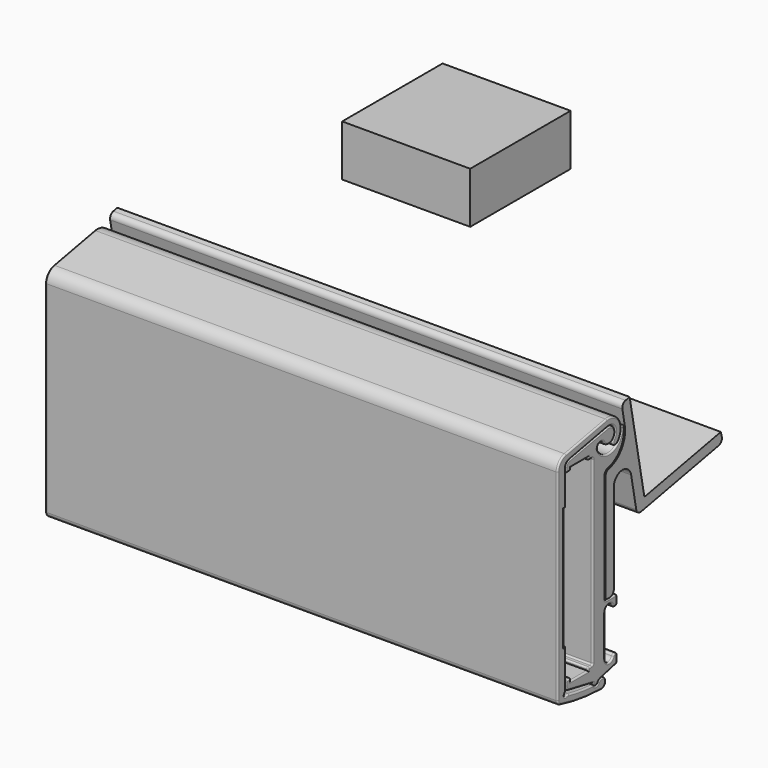
from build123d import *

# Parameters (mm, degrees)
F4_DEPTH  = 100
F5_DEPTH  = 100
F6_R      = 0.3
F7_R      = 0.3
F8_DEPTH  = 100
F9_W      = 24.502210319
F9_H      = 9.9877920002
F10_DEPTH = 25
F11_DEPTH = 50
F12_DEPTH = 25


with BuildPart() as f4:
    # F1 (on Right) → F4 (new body)
    with BuildSketch(Plane.YZ):
        with BuildLine():
            ThreePointArc((-6.5986927329, 35.6), (-6.5108247672, 35.3878679656), (-6.2986927329, 35.3))
            Line((-6.2986927329, 35.3), (-5.648984227, 35.3))
            ThreePointArc((-5.648984227, 35.3), (-5.4368521926, 35.3878679656), (-5.348984227, 35.6))
            Line((-5.348984227, 35.6), (-5.348984227, 35.85))
            Line((-5.348984227, 35.85), (-1.148984227, 35.85))
            Line((-1.148984227, 35.85), (-1.148984227, 35.6))
            ThreePointArc((-1.148984227, 35.6), (-1.0611162613, 35.3878679656), (-0.848984227, 35.3))
            Line((-0.848984227, 35.3), (-0.3, 35.3))
            ThreePointArc((-0.3, 35.3), (-0.0878679656, 35.2121320344), (0, 35))
            Line((0, 35), (0, 0))
            ThreePointArc((0, 0), (-0.0878679656, -0.2121320344), (-0.3, -0.3))
            Line((-0.3, -0.3), (-0.848984227, -0.3))
            ThreePointArc((-0.848984227, -0.3), (-1.0611162613, -0.3878679656), (-1.148984227, -0.6))
            Line((-1.148984227, -0.6), (-1.148984227, -0.85))
            Line((-1.148984227, -0.85), (-5.348984227, -0.85))
            Line((-5.348984227, -0.85), (-5.348984227, -0.6))
            ThreePointArc((-5.348984227, -0.6), (-5.4368521926, -0.3878679656), (-5.648984227, -0.3))
            Line((-5.648984227, -0.3), (-6.3, -0.3))
            ThreePointArc((-6.3, -0.3), (-6.5121320344, -0.3878679656), (-6.6, -0.6))
            Line((-6.6, -0.6), (-6.6, -1.3))
            ThreePointArc((-6.6, -1.3), (-6.3708632711, -1.9370006416), (-5.7884603653, -2.2820807964))
            Line((-5.7884603653, -2.2820807964), (-0.0865544203, -3.3762710924))
            ThreePointArc((-0.0865544203, -3.3762710924), (0.1222638607, -3.4876269814), (0.2316020405, -3.6975087838))
            ThreePointArc((0.2316020405, -3.6975087838), (0.7086336632, -4.1660938292), (1.3100781326, -3.8738684639))
            ThreePointArc((1.3100781326, -3.8738684639), (1.5817000652, -3.5577812642), (1.9570749663, -3.3767197392))
            Line((1.9570749663, -3.3767197392), (5.6206396997, -2.4658665132))
            ThreePointArc((5.6206396997, -2.4658665132), (5.8939034462, -2.2885998252), (6, -1.9806386668))
            Line((6, -1.9806386668), (6, -0.97325259))
            ThreePointArc((6, -0.97325259), (5.8535533906, -0.6196991994), (5.5, -0.47325259))
            Line((5.5, -0.47325259), (5.4142135624, -0.47325259))
            ThreePointArc((5.4142135624, -0.47325259), (5.1255384278, -0.5650042995), (4.9428090416, -0.8065859233))
            ThreePointArc((4.9428090416, -0.8065859233), (3.8308980213, -1.4588511497), (3, -0.47325259))
            Line((3, -0.47325259), (3, 7.52674741))
            ThreePointArc((3, 7.52674741), (3.8308980213, 8.5123459697), (4.9428090416, 7.8600807433))
            ThreePointArc((4.9428090416, 7.8600807433), (5.1255384278, 7.6184991195), (5.4142135624, 7.52674741))
            Line((5.4142135624, 7.52674741), (5.5, 7.52674741))
            ThreePointArc((5.5, 7.52674741), (5.8535533906, 7.6731940194), (6, 8.02674741))
            Line((6, 8.02674741), (6, 9.0341334868))
            ThreePointArc((6, 9.0341334868), (5.8535533906, 9.3876868774), (5.5, 9.5341334868))
            Line((5.5, 9.5341334868), (3.2328928629, 9.5341334868))
            ThreePointArc((3.2328928629, 9.5341334868), (3.0914715066, 9.5927121306), (3.0328928629, 9.7341334868))
            Line((3.0328928629, 9.7341334868), (3.0328928629, 30.9422663614))
            ThreePointArc((3.0328928629, 30.9422663614), (3.2558877648, 31.5717606645), (3.825419018, 31.9205069268))
            ThreePointArc((3.825419018, 31.9205069268), (6.9149840047, 33.9888718169), (7.7225945394, 37.6181018109))
            ThreePointArc((7.7225945394, 37.6181018109), (7.3673025712, 37.896077679), (7.0614932547, 37.5644398829))
            ThreePointArc((7.0614932547, 37.5644398829), (4.7638322945, 34.5700698214), (1.2768145029, 36.0144398829))
            ThreePointArc((1.2768145029, 36.0144398829), (1.569634826, 37.1072602059), (2.662455149, 36.8144398829))
            ThreePointArc((2.662455149, 36.8144398829), (5.3237230576, 36.9364829068), (3.6880693091, 39.0393091469))
            Line((3.6880693091, 39.0393091469), (-5.7334889196, 37.2926596733))
            ThreePointArc((-5.7334889196, 37.2926596733), (-6.3541269651, 36.9288674594), (-6.5986927329, 36.2523144728))
            Line((-6.5986927329, 36.2523144728), (-6.5986927329, 35.6))
        make_face()
    extrude(amount=F4_DEPTH)

    # F7
    f7_edges = [f4.edges().sort_by_distance(p)[0] for p in [
        (100, -6.354127, 36.928867),
        (100, -6.598693, 35.926157),
        (100, -6.510825, 35.387868),
        (100, -5.973838, 35.3),
        (100, -5.436852, 35.387868),
        (100, -5.348984, 35.725),
        (100, -3.248984, 35.85),
        (100, -1.148984, 35.725),
        (100, -1.061116, 35.387868),
        (100, -0.574492, 35.3),
        (100, -0.087868, 35.212132),
        (100, 0, 17.5),
        (100, -0.087868, -0.212132),
        (100, -0.574492, -0.3),
        (100, -1.061116, -0.387868),
        (100, -1.148984, -0.725),
        (100, -3.248984, -0.85),
        (100, -5.348984, -0.725),
        (100, -5.436852, -0.387868),
        (100, -5.974492, -0.3),
        (100, -6.512132, -0.387868),
        (100, -6.6, -0.95),
        (100, -6.370863, -1.937001),
        (100, -2.937507, -2.829176),
        (100, 0.122264, -3.487627),
        (100, 0.708634, -4.166094),
        (100, 1.5817, -3.557781),
        (100, 3.788857, -2.921293),
        (100, 5.893903, -2.2886),
        (100, 6, -1.476946),
        (100, 5.853553, -0.619699),
        (100, 5.457107, -0.473253),
        (100, 5.125538, -0.565004),
        (100, 3.830898, -1.458851),
        (100, 3, 3.526747),
        (100, 3.830898, 8.512346),
        (100, 5.125538, 7.618499),
        (100, 5.457107, 7.526747),
        (100, 5.853553, 7.673194),
        (100, 6, 8.53044),
        (100, 5.853553, 9.387687),
        (100, 4.366446, 9.534133),
        (100, 3.091472, 9.592712),
        (100, 3.032893, 20.3382),
        (100, 3.255888, 31.571761),
        (100, 6.914984, 33.988872),
        (100, 7.367303, 37.896078),
        (100, 4.763832, 34.57007),
        (100, 1.569635, 37.10726),
        (100, 5.323723, 36.936483),
        (100, -1.02271, 38.165984),
        (0, -6.354127, 36.928867),
        (0, -6.598693, 35.926157),
        (0, -6.510825, 35.387868),
        (0, -5.973838, 35.3),
        (0, -5.436852, 35.387868),
        (0, -5.348984, 35.725),
        (0, -3.248984, 35.85),
        (0, -1.148984, 35.725),
        (0, -1.061116, 35.387868),
        (0, -0.574492, 35.3),
        (0, -0.087868, 35.212132),
        (0, 0, 17.5),
        (0, -0.087868, -0.212132),
        (0, -0.574492, -0.3),
        (0, -1.061116, -0.387868),
        (0, -1.148984, -0.725),
        (0, -3.248984, -0.85),
        (0, -5.348984, -0.725),
        (0, -5.436852, -0.387868),
        (0, -5.974492, -0.3),
        (0, -6.512132, -0.387868),
        (0, -6.6, -0.95),
        (0, -6.370863, -1.937001),
        (0, -2.937507, -2.829176),
        (0, 0.122264, -3.487627),
        (0, 0.708634, -4.166094),
        (0, 1.5817, -3.557781),
        (0, 3.788857, -2.921293),
        (0, 5.893903, -2.2886),
        (0, 6, -1.476946),
        (0, 5.853553, -0.619699),
        (0, 5.457107, -0.473253),
        (0, 5.125538, -0.565004),
        (0, 3.830898, -1.458851),
        (0, 3, 3.526747),
        (0, 3.830898, 8.512346),
        (0, 5.125538, 7.618499),
        (0, 5.457107, 7.526747),
        (0, 5.853553, 7.673194),
        (0, 6, 8.53044),
        (0, 5.853553, 9.387687),
        (0, 4.366446, 9.534133),
        (0, 3.091472, 9.592712),
        (0, 3.032893, 20.3382),
        (0, 3.255888, 31.571761),
        (0, 6.914984, 33.988872),
        (0, 7.367303, 37.896078),
        (0, 4.763832, 34.57007),
        (0, 1.569635, 37.10726),
        (0, 5.323723, 36.936483),
        (0, -1.02271, 38.165984),
    ]]
    fillet(f7_edges, radius=F7_R)

    # F0 (on Right) → F11 (join)
    with BuildSketch(Plane.YZ):
        with BuildLine():
            ThreePointArc((0, 34.5), (-0.1464466094, 34.8535533906), (-0.5, 35))
            Line((-0.5, 35), (-6, 35))
            ThreePointArc((-6, 35), (-6.3535533906, 34.8535533906), (-6.5, 34.5))
            Line((-6.5, 34.5), (-6.5, 29.4))
            Line((-6.5, 29.4), (-6.5, 5.6))
            Line((-6.5, 5.6), (-6.5, 0.5))
            ThreePointArc((-6.5, 0.5), (-6.3535533906, 0.1464466094), (-6, 0))
            Line((-6, 0), (-0.5, 0))
            ThreePointArc((-0.5, 0), (-0.1464466094, 0.1464466094), (0, 0.5))
            Line((0, 0.5), (0, 34.5))
        make_face()
    extrude(amount=F11_DEPTH)

    # F0 (on Right) → F12 (join)
    with BuildSketch(Plane.YZ):
        with BuildLine():
            ThreePointArc((0, 34.5), (-0.1464466094, 34.8535533906), (-0.5, 35))
            Line((-0.5, 35), (-6, 35))
            ThreePointArc((-6, 35), (-6.3535533906, 34.8535533906), (-6.5, 34.5))
            Line((-6.5, 34.5), (-6.5, 29.4))
            Line((-6.5, 29.4), (-6.5, 5.6))
            Line((-6.5, 5.6), (-6.5, 0.5))
            ThreePointArc((-6.5, 0.5), (-6.3535533906, 0.1464466094), (-6, 0))
            Line((-6, 0), (-0.5, 0))
            ThreePointArc((-0.5, 0), (-0.1464466094, 0.1464466094), (0, 0.5))
            Line((0, 0.5), (0, 34.5))
        make_face()
    extrude(amount=F12_DEPTH)


with BuildPart() as f5:
    # F2 (on Right) → F5 (new body)
    with BuildSketch(Plane.YZ):
        with BuildLine():
            Line((3.3874237713, 40.5395607592), (-6.577213406, 38.61681733))
            ThreePointArc((-6.577213406, 38.61681733), (-7.9861152068, 37.8066649135), (-8.5986923441, 36.3013076559))
            Line((-8.5986923441, 36.3013076559), (-8.5986923441, -2.9915447872))
            ThreePointArc((-8.5986923441, -2.9915447872), (-8.3919076915, -3.6004860098), (-7.8570735189, -3.9575878341))
            ThreePointArc((-7.8570735189, -3.9575878341), (-2.8791191486, -4.9688755244), (2.1848430589, -5.3676477244))
            ThreePointArc((2.1848430589, -5.3676477244), (3.0683011122, -3.8674039581), (1.327337442, -3.8839867606))
            ThreePointArc((1.327337442, -3.8839867606), (0.8341463363, -4.1928474112), (0.3109388427, -3.9381195427))
            ThreePointArc((0.3109388427, -3.9381195427), (0.1807298879, -3.8197925344), (0.012344404, -3.7687829116))
            ThreePointArc((0.012344404, -3.7687829116), (-2.9091729698, -3.4492101869), (-5.7995512298, -2.917134999))
            ThreePointArc((-5.7995512298, -2.917134999), (-6.1390157774, -2.9008830604), (-6.464319145, -2.9992600072))
            ThreePointArc((-6.464319145, -2.9992600072), (-6.8336465056, -2.9175748244), (-6.8294615749, -2.5393451921))
            ThreePointArc((-6.8294615749, -2.5393451921), (-6.658152401, -2.2400572359), (-6.5986923441, -1.9003741257))
            Line((-6.5986923441, -1.9003741257), (-6.5986923441, 5.5996258743))
            Line((-6.5986923441, 5.5996258743), (-6.9986923441, 5.5996258743))
            Line((-6.9986923441, 5.5996258743), (-6.9986923441, 29.3972150865))
            Line((-6.9986923441, 29.3972150865), (-6.5986923441, 29.3972150865))
            Line((-6.5986923441, 29.3972150865), (-6.5986923441, 36.2523145449))
            ThreePointArc((-6.5986923441, 36.2523145449), (-6.3565927891, 36.9258910459), (-5.741084689, 37.2912227799))
            Line((-5.741084689, 37.2912227799), (3.6640381098, 39.1060041653))
            ThreePointArc((3.6640381098, 39.1060041653), (5.3422627543, 38.3116852166), (5.0893591921, 36.4722776115))
            ThreePointArc((5.0893591921, 36.4722776115), (5.1059602598, 35.4400351959), (6.1382026754, 35.4566362636))
            ThreePointArc((6.1382026754, 35.4566362636), (6.6262904419, 39.0065757818), (3.3874237713, 40.5395607592))
        make_face()
    extrude(amount=F5_DEPTH)

    # F6
    f6_edges = [f5.edges().sort_by_distance(p)[0] for p in [
        (100, 5.10596, 35.440035),
        (100, 6.62629, 39.006576),
        (100, -1.594895, 39.578189),
        (100, -7.986115, 37.806665),
        (100, -8.598692, 16.654881),
        (100, -8.391908, -3.600486),
        (100, -2.879119, -4.968876),
        (100, 3.068301, -3.867404),
        (100, 0.834146, -4.192847),
        (100, 0.18073, -3.819793),
        (100, -2.909173, -3.44921),
        (100, -6.139016, -2.900883),
        (100, -6.833647, -2.917575),
        (100, -6.658152, -2.240057),
        (100, -6.598692, 1.849626),
        (100, -6.798692, 5.599626),
        (100, -6.998692, 17.49842),
        (100, -6.798692, 29.397215),
        (100, -6.598692, 32.824765),
        (100, -6.356593, 36.925891),
        (100, -1.038523, 38.198613),
        (100, 5.342263, 38.311685),
        (0, 5.10596, 35.440035),
        (0, 6.62629, 39.006576),
        (0, -1.594895, 39.578189),
        (0, -7.986115, 37.806665),
        (0, -8.598692, 16.654881),
        (0, -8.391908, -3.600486),
        (0, -2.879119, -4.968876),
        (0, 3.068301, -3.867404),
        (0, 0.834146, -4.192847),
        (0, 0.18073, -3.819793),
        (0, -2.909173, -3.44921),
        (0, -6.139016, -2.900883),
        (0, -6.833647, -2.917575),
        (0, -6.658152, -2.240057),
        (0, -6.598692, 1.849626),
        (0, -6.798692, 5.599626),
        (0, -6.998692, 17.49842),
        (0, -6.798692, 29.397215),
        (0, -6.598692, 32.824765),
        (0, -6.356593, 36.925891),
        (0, -1.038523, 38.198613),
        (0, 5.342263, 38.311685),
    ]]
    fillet(f6_edges, radius=F6_R)


with BuildPart() as f8:
    # F3 (on Right) → F8 (new body)
    with BuildSketch(Plane.YZ):
        with BuildLine():
            Line((3.1328928629, 30.9422663614), (3.1328928629, 9.6341334868))
            Line((3.1328928629, 9.6341334868), (4.1328928629, 9.6341334868))
            ThreePointArc((4.1328928629, 9.6341334868), (4.8399996441, 9.9270267056), (5.1328928629, 10.6341334868))
            Line((5.1328928629, 10.6341334868), (5.1328928629, 28.1688515081))
            ThreePointArc((5.1328928629, 28.1688515081), (7.0645280665, 30.2939508443), (9.3638029502, 28.5733123704))
            Line((9.3638029502, 28.5733123704), (10.617697141, 22.0749931038))
            ThreePointArc((10.617697141, 22.0749931038), (11.0392552777, 21.4361854841), (11.7890470947, 21.2825669015))
            Line((11.7890470947, 21.2825669015), (30.7036406946, 24.9322643177))
            ThreePointArc((30.7036406946, 24.9322643177), (31.3591707932, 25.3793734102), (31.4826717631, 26.1631933903))
            Line((31.4826717631, 26.1631933903), (31.2483948852, 27.074270314))
            Line((31.2483948852, 27.074270314), (12.5925214037, 23.4744946761))
            Line((12.5925214037, 23.4744946761), (8.9927457658, 42.1303681576))
            Line((8.9927457658, 42.1303681576), (8.0108576878, 41.9409062819))
            ThreePointArc((8.0108576878, 41.9409062819), (7.3720500681, 41.5193481452), (7.2184314855, 40.7695563282))
            Line((7.2184314855, 40.7695563282), (7.7956789911, 37.7779653195))
            ThreePointArc((7.7956789911, 37.7779653195), (7.0383045282, 33.9929627464), (3.8461664025, 31.8226828702))
            ThreePointArc((3.8461664025, 31.8226828702), (3.3335882746, 31.5088112342), (3.1328928629, 30.9422663614))
        make_face()
    extrude(amount=F8_DEPTH)


with BuildPart() as f10:
    # F9 (on face) → F10 (new body)
    with BuildSketch(Plane.YZ):
        with Locations((76.0958828032, 29.6685146168)):
            Rectangle(F9_W, F9_H)
    extrude(amount=F10_DEPTH)


solid = Compound([f4.part, f5.part, f8.part, f10.part])
